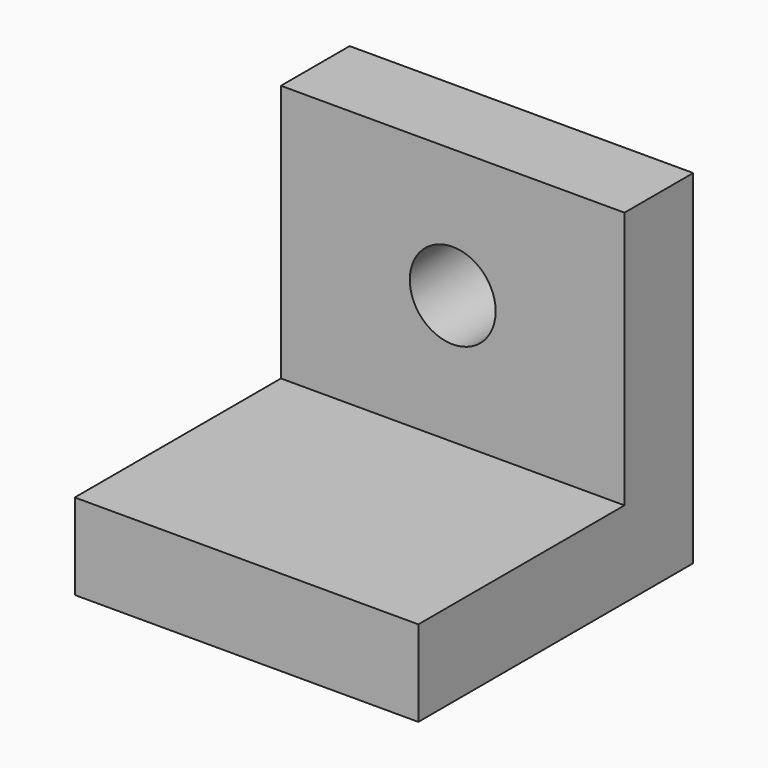
from build123d import *

# Parameters (mm, degrees)
F0_W     = 50.8
F0_H     = 50.8
F1_DEPTH = 12.7
F2_W     = 50.8
F2_H     = 12.7
F3_DEPTH = 38.1
F4_R     = 6.35
F5_DEPTH = 12.701


with BuildPart() as f1:
    # F0 (on Top) → F1 (new body)
    with BuildSketch(Plane.XY):
        with Locations((-35.718752, 33.718498)):
            Rectangle(F0_W, F0_H)
    extrude(amount=F1_DEPTH)

    # F2 (on face) → F3 (join)
    with BuildSketch(Plane.XY.offset(12.7)):
        with Locations((-35.718752, 52.768498)):
            Rectangle(F2_W, F2_H)
    extrude(amount=F3_DEPTH)

    # F4 (on face) → F5 (cut, through all)
    with BuildSketch(Plane.XZ.offset(-46.418498)):
        with Locations((-35.718752, 31.75)):
            Circle(F4_R)
    extrude(amount=-F5_DEPTH, mode=Mode.SUBTRACT)


solid = f1.part
